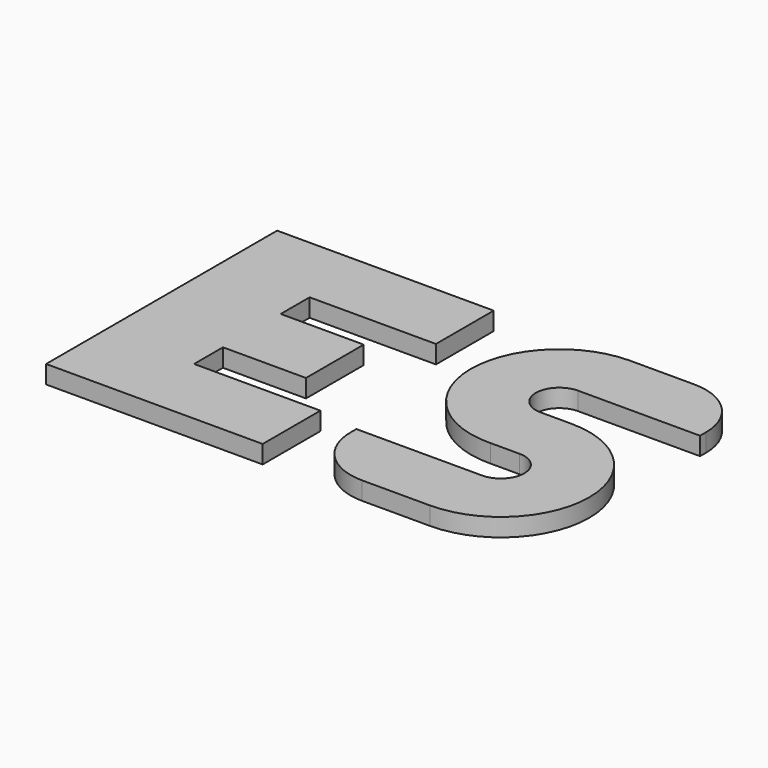
from build123d import *

# Parameters (mm, degrees)
F1_DEPTH = 5


with BuildPart() as f1:
    # F0 (on Top) → F1 (new body)
    with BuildSketch(Plane.XY):
        Polygon((-9.42095, -11.807189), (-69.42095, -11.807189), (-69.42095, -91.807189), (-9.42095, -91.807189), (-9.42095, -71.807189), (-44.42095, -71.807189), (-44.42095, -61.807189), (-21.42095, -61.807189), (-21.42095, -41.807189), (-44.42095, -41.807189), (-44.42095, -31.807189), (-9.42095, -31.807189), align=None)
        with BuildLine():
            Line((46.039547, -11.686897), (28.269377, -11.686897))
            ThreePointArc((28.269377, -11.686897), (3.767594, -36.485995), (28.860401, -60.686897))
            Line((28.860401, -60.686897), (36.866678, -60.686897))
            ThreePointArc((36.866678, -60.686897), (43.366678, -67.186897), (36.866678, -73.686897))
            Line((36.866678, -73.686897), (2.039547, -73.686897))
            Line((2.039547, -73.686897), (2.039547, -75.686897))
            ThreePointArc((2.039547, -75.686897), (6.725839, -87.000605), (18.039547, -91.686897))
            Line((18.039547, -91.686897), (36.866678, -91.686897))
            ThreePointArc((36.866678, -91.686897), (61.366678, -67.186897), (36.866678, -42.686897))
            Line((36.866678, -42.686897), (28.573801, -42.686897))
            ThreePointArc((28.573801, -42.686897), (28.269377, -42.694026), (27.964952, -42.686897))
            ThreePointArc((27.964952, -42.686897), (21.767595, -36.038208), (28.269377, -29.686897))
            Line((28.269377, -29.686897), (62.039547, -29.686897))
            Line((62.039547, -29.686897), (62.039547, -27.686897))
            ThreePointArc((62.039547, -27.686897), (57.353256, -16.373188), (46.039547, -11.686897))
        make_face()
        with BuildLine():
            Line((28.573801, -42.686897), (27.964952, -42.686897))
            ThreePointArc((27.964952, -42.686897), (28.269377, -42.694026), (28.573801, -42.686897))
        make_face()
    extrude(amount=F1_DEPTH)


solid = f1.part
